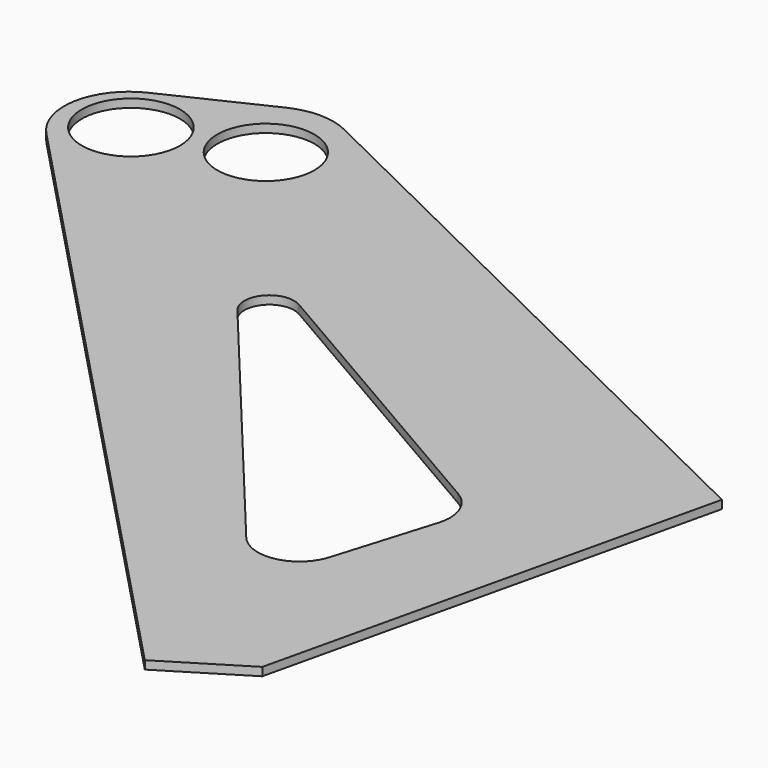
from build123d import *

# Parameters (mm, degrees)
SKETCH_R   = 58.5
SKETCH_R_2 = 59.15
PAD_DEPTH  = 10


with BuildPart() as part:
    # Sketch → Pad (new body)
    with BuildSketch(Plane.XY):
        with BuildLine():
            Line((-424.386055, 871.427134), (318.446365, 91.122677))
            Line((318.446365, 91.122677), (413.307384, 149.460342))
            Line((413.307384, 149.460342), (538.173226, 685.49367))
            Line((538.173226, 685.49367), (-210.640671, 1052.542483))
            ThreePointArc((-210.640671, 1052.542483), (-245.83847, 1060.808988), (-281.126647, 1052.937227))
            Line((-281.126647, 1052.937227), (-401.436309, 995.626851))
            ThreePointArc((-401.436309, 995.626851), (-444.593461, 939.381275), (-424.386055, 871.427134))
        make_face()
        with Locations((-238.901588, 970.063171)):
            Circle(SKETCH_R, mode=Mode.SUBTRACT)
        with Locations((-369.619069, 930.28155)):
            Circle(SKETCH_R_2, mode=Mode.SUBTRACT)
        with BuildLine():
            ThreePointArc((-20.728661, 747.309936), (-58.68704, 740.721675), (-58.859603, 702.196177))
            Line((-58.859603, 702.196177), (236.819684, 345.945149))
            ThreePointArc((236.819684, 345.945149), (285.175775, 328.864216), (323.136202, 363.347195))
            Line((323.136202, 363.347195), (359.298187, 482.408455))
            ThreePointArc((359.298187, 482.408455), (357.97659, 515.265634), (336.53324, 540.196008))
            Line((-20.728661, 747.309936), (336.53324, 540.196008))
        make_face(mode=Mode.SUBTRACT)
    extrude(amount=PAD_DEPTH)


solid = part.part
